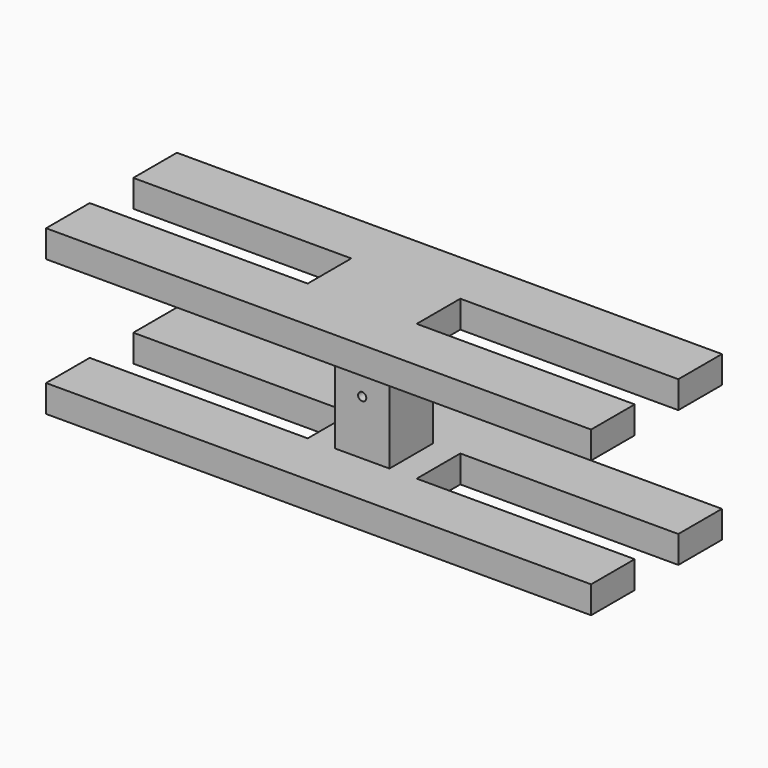
from build123d import *

# Parameters (mm, degrees)
F1_DEPTH = 10
F2_W     = 20
F2_H     = 20
F3_DEPTH = 40
F4_R     = 1.5
F5_DEPTH = 20
F6_W     = 20
F6_H     = 20
F7_DEPTH = 10


with BuildPart() as f1:
    # F0 (on Top) → F1 (new body)
    with BuildSketch(Plane.XY):
        Polygon((-100, -10), (-100, -30), (100, -30), (100, -10), (20, -10), (20, 10), (100, 10), (100, 30), (-100, 30), (-100, 10), (-20, 10), (-20, -10), align=None)
    extrude(amount=F1_DEPTH)

    # F2 (on face) → F3 (join)
    with BuildSketch(Plane.XY.offset(10)):
        Rectangle(F2_W, F2_H)
    extrude(amount=F3_DEPTH)

    # F4 (on face) → F5 (cut)
    with BuildSketch(Plane.XZ.offset(10)):
        with Locations((0, 30)):
            Circle(F4_R)
    extrude(amount=-F5_DEPTH, mode=Mode.SUBTRACT)

    # F6 (on face) → F7 (join)
    with BuildSketch(Plane.XY.offset(50)):
        Polygon((-20, 10), (-20, -10), (-100, -10), (-100, -30), (100, -30), (100, -10), (20, -10), (20, 10), (100, 10), (100, 30), (-100, 30), (-100, 10), align=None)
        Rectangle(F6_W, F6_H, mode=Mode.SUBTRACT)
        Rectangle(F6_W, F6_H)
    extrude(amount=F7_DEPTH)


solid = f1.part
